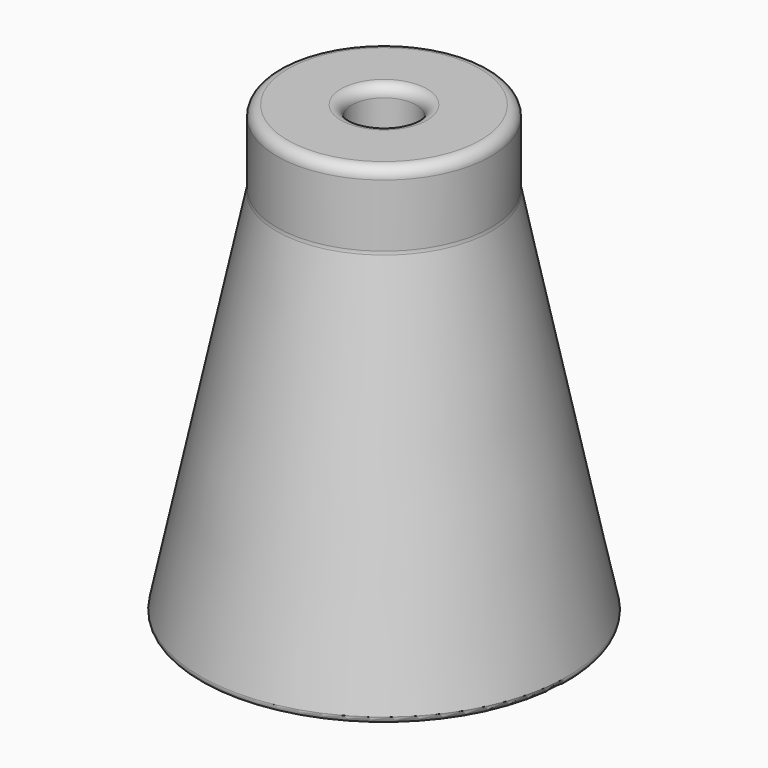
from build123d import *


with BuildPart() as f1:
    # F0 (on Right) → F1 (revolve)
    with BuildSketch(Plane.YZ):
        with BuildLine():
            ThreePointArc((-3, 41), (-3.292893, 41.707107), (-4, 42))
            Line((-4, 42), (-9, 42))
            ThreePointArc((-9, 42), (-9.707107, 41.707107), (-10, 41))
            Line((-10, 41), (-10, 35.155007))
            ThreePointArc((-10, 35.155007), (-10.007945, 35.000821), (-10.031698, 34.848269))
            Line((-10.031698, 34.848269), (-17.185923, 0.602246))
            ThreePointArc((-17.185923, 0.602246), (-17.084512, 0.184661), (-16.696489, 0))
            Line((-16.696489, 0), (-16.185695, 0))
            ThreePointArc((-16.185695, 0), (-15.870356, 0.111977), (-15.696261, 0.397754))
            Line((-15.696261, 0.397754), (-10.388152, 25.806738))
            ThreePointArc((-10.388152, 25.806738), (-9.865866, 26.664068), (-8.91985, 27))
            Line((-8.91985, 27), (-4, 27))
            ThreePointArc((-4, 27), (-3.292893, 27.292893), (-3, 28))
            Line((-3, 28), (-3, 41))
        make_face()
    revolve(axis=Axis((0, 0, 21), (0, 0, -1)))


solid = f1.part
